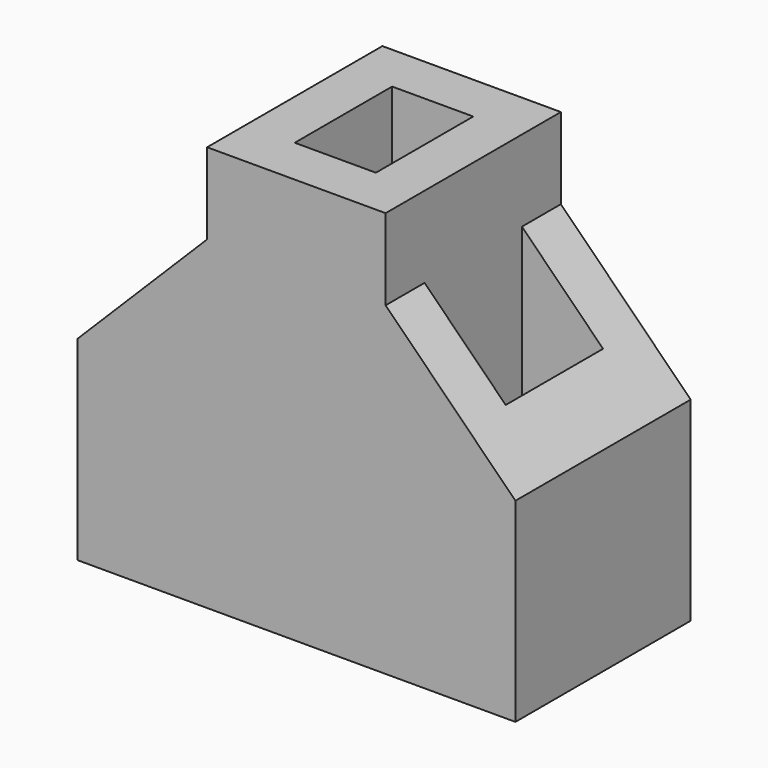
from build123d import *

# Parameters (mm, degrees)
F0_W     = 5
F0_H     = 7.5
F1_DEPTH = 25
F2_DEPTH = 20
F4_DEPTH = 25
F5_W     = 5
F5_H     = 3
F6_DEPTH = 25


with BuildPart() as f1:
    # F0 (on Top) → F1 (new body)
    with BuildSketch(Plane.XY):
        Polygon((5.5, 6.75), (-5.5, 6.75), (-5.5, 3.75), (-5.5, -3.75), (-5.5, -6.75), (5.5, -6.75), (5.5, -3.75), (5.5, 3.75), align=None)
        Rectangle(F0_W, F0_H, mode=Mode.SUBTRACT)
    extrude(amount=F1_DEPTH)

    # F0 (on Top) → F2 (join)
    with BuildSketch(Plane.XY):
        Polygon((-5.5, 3.75), (-5.5, 6.75), (-13.5, 6.75), (-13.5, -6.75), (-5.5, -6.75), (-5.5, -3.75), (-10.5, -3.75), (-10.5, 3.75), align=None)
        Polygon((13.5, 6.75), (5.5, 6.75), (5.5, 3.75), (10.5, 3.75), (10.5, -3.75), (5.5, -3.75), (5.5, -6.75), (13.5, -6.75), align=None)
    extrude(amount=F2_DEPTH)

    # F3 (on face) → F4 (cut)
    with BuildSketch(Plane.XZ.offset(6.75)):
        Polygon((-13.5, 12), (-5.5, 20), (-13.5, 20), align=None)
        Polygon((13.5, 20), (5.5, 20), (13.5, 12), align=None)
    extrude(amount=-F4_DEPTH, mode=Mode.SUBTRACT)

    # F5 (on Front) → F6 (cut)
    with BuildSketch(Plane.XZ):
        with Locations((-8, 1.5)):
            Rectangle(F5_W, F5_H)
        with Locations((0, 1.5)):
            Rectangle(F5_W, F5_H)
        with Locations((8, 1.5)):
            Rectangle(F5_W, F5_H)
    extrude(amount=-F6_DEPTH, mode=Mode.SUBTRACT)


solid = f1.part
